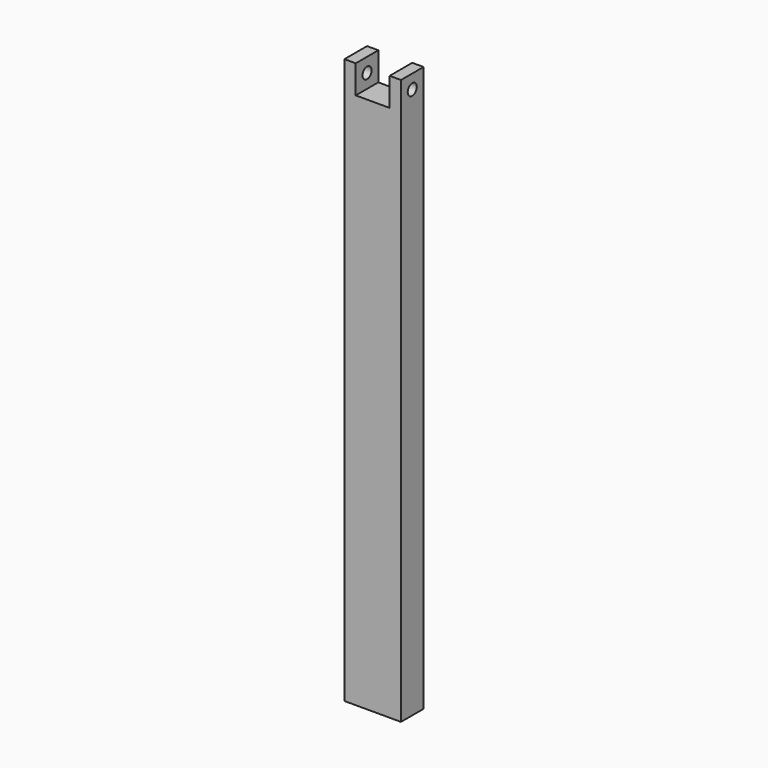
from build123d import *

# Parameters (mm, degrees)
F0_W     = 12.7
F0_H     = 127
F1_DEPTH = 6.35
F2_W     = 7.62
F2_H     = 6.35
F3_DEPTH = 6.351
F4_R     = 1.27
F5_DEPTH = 12.7


with BuildPart() as f1:
    # F0 (on Front) → F1 (new body)
    with BuildSketch(Plane.XZ):
        with Locations((-1.295127, 36.507539)):
            Rectangle(F0_W, F0_H)
    extrude(amount=F1_DEPTH)

    # F2 (on Front) → F3 (cut, through all)
    with BuildSketch(Plane.XZ):
        with Locations((-1.295127, 96.832539)):
            Rectangle(F2_W, F2_H)
    extrude(amount=F3_DEPTH, mode=Mode.SUBTRACT)

    # F4 (on face) → F5 (cut, symmetric)
    with BuildSketch(Plane.YZ.offset(-5.105127)):
        with Locations((-3.175, 96.832539)):
            Circle(F4_R)
    extrude(amount=F5_DEPTH, both=True, mode=Mode.SUBTRACT)


solid = f1.part
